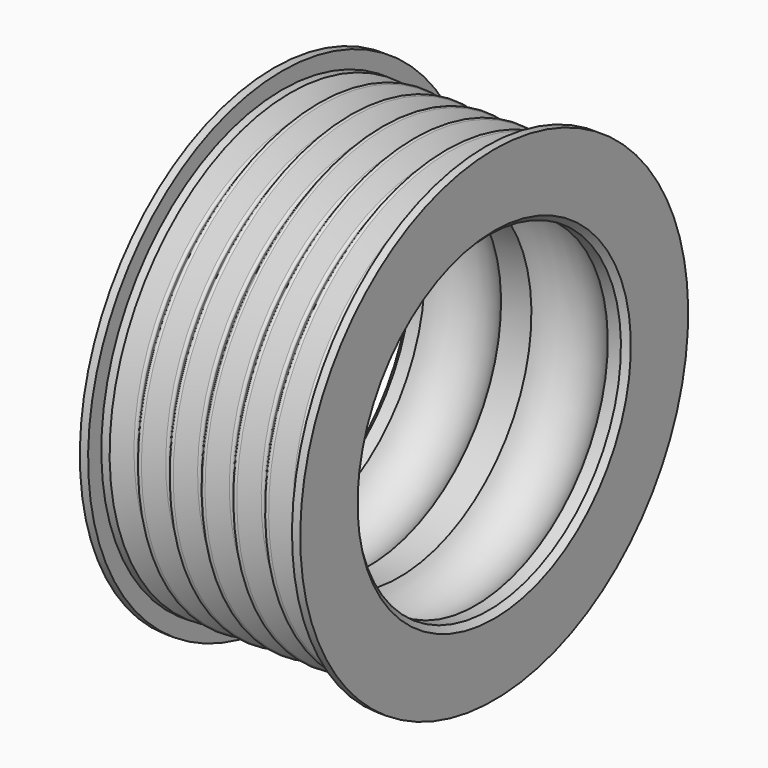
from build123d import *

# Parameters (mm, degrees)
F2_R    = 8
F4_SIZE = 1


with BuildPart() as f1:
    # F0 (on Front) → F1 (revolve)
    with BuildSketch(Plane.XZ):
        with BuildLine():
            Line((-20, 30), (0, 30))
            Line((0, 30), (20, 30))
            Line((20, 30), (20, 44))
            Line((20, 44), (18.5, 44))
            Line((18.5, 44), (18.5, 41))
            Line((18.5, 41), (17, 41))
            Line((17, 41), (14.825372, 38.193734))
            ThreePointArc((14.825372, 38.193734), (14.430149, 38), (14.034926, 38.193734))
            Line((14.034926, 38.193734), (11.860297, 41))
            ThreePointArc((11.860297, 41), (11.544119, 41.154987), (11.227941, 41))
            Line((11.227941, 41), (9.053312, 38.193734))
            ThreePointArc((9.053312, 38.193734), (8.658089, 38), (8.262866, 38.193734))
            Line((8.262866, 38.193734), (6.088238, 41))
            ThreePointArc((6.088238, 41), (5.772059, 41.154987), (5.455881, 41))
            Line((5.455881, 41), (3.281253, 38.193734))
            ThreePointArc((3.281253, 38.193734), (2.88603, 38), (2.490807, 38.193734))
            Line((2.490807, 38.193734), (0.316178, 41))
            ThreePointArc((0.316178, 41), (0.176061, 41.114157), (0, 41.154987))
            ThreePointArc((0, 41.154987), (-0.176061, 41.114157), (-0.316178, 41))
            Line((-0.316178, 41), (-2.490807, 38.193734))
            ThreePointArc((-2.490807, 38.193734), (-2.88603, 38), (-3.281253, 38.193734))
            Line((-3.281253, 38.193734), (-5.455881, 41))
            ThreePointArc((-5.455881, 41), (-5.772059, 41.154987), (-6.088238, 41))
            Line((-6.088238, 41), (-8.262866, 38.193734))
            ThreePointArc((-8.262866, 38.193734), (-8.658089, 38), (-9.053312, 38.193734))
            Line((-9.053312, 38.193734), (-11.227941, 41))
            ThreePointArc((-11.227941, 41), (-11.544119, 41.154987), (-11.860297, 41))
            Line((-11.860297, 41), (-14.034926, 38.193734))
            ThreePointArc((-14.034926, 38.193734), (-14.430149, 38), (-14.825372, 38.193734))
            Line((-14.825372, 38.193734), (-17, 41))
            Line((-17, 41), (-18.5, 41))
            Line((-18.5, 41), (-18.5, 44))
            Line((-18.5, 44), (-20, 44))
            Line((-20, 44), (-20, 30))
        make_face()
    revolve(axis=Axis((0, 0, 0), (1, 0, 0)))

    # F2 (on Front) → F3 (revolve, cut)
    with BuildSketch(Plane.XZ):
        with Locations((-9.683822, 26)):
            Circle(F2_R)
        with Locations((9.683822, 26)):
            Circle(F2_R)
    revolve(axis=Axis((0, 0, 0), (1, 0, 0)), mode=Mode.SUBTRACT)

    # F4
    f4_edges = [f1.edges().sort_by_distance(p)[0] for p in [
        (20, 0, -30),
        (-20, 0, -30),
    ]]
    chamfer(f4_edges, length=F4_SIZE)


solid = f1.part
